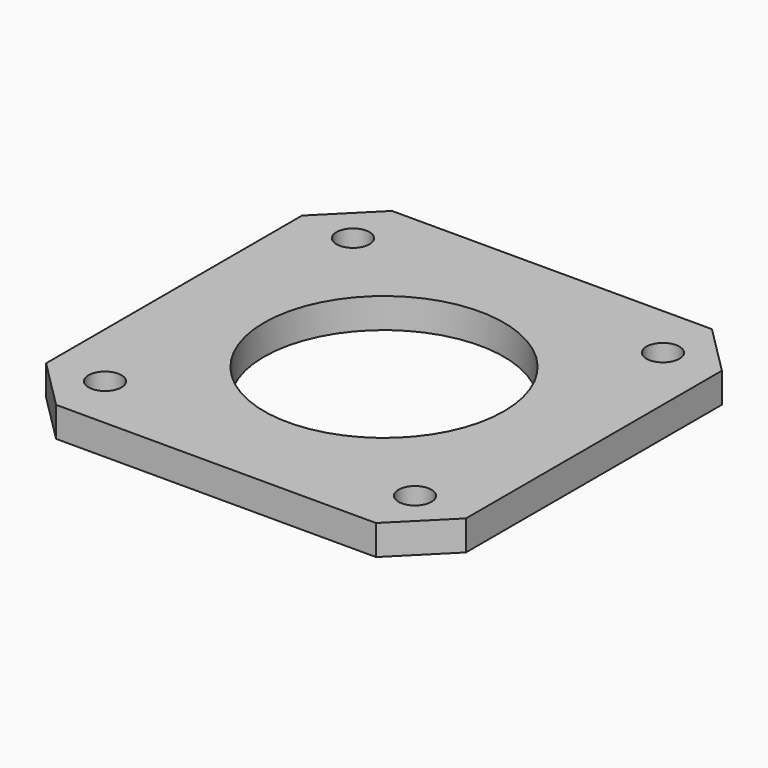
from build123d import *

# Parameters (mm, degrees)
F0_W     = 42
F0_H     = 42
F0_R     = 1.65
F0_R_2   = 12
F1_DEPTH = 3
F2_SIZE  = 5


with BuildPart() as f1:
    # F0 (on Top) → F1 (new body)
    with BuildSketch(Plane.XY):
        Rectangle(F0_W, F0_H)
        with Locations((-15.5, -15.5)):
            Circle(F0_R, mode=Mode.SUBTRACT)
        with Locations((15.5, -15.5)):
            Circle(F0_R, mode=Mode.SUBTRACT)
        with Locations((-15.5, 15.5)):
            Circle(F0_R, mode=Mode.SUBTRACT)
        Circle(F0_R_2, mode=Mode.SUBTRACT)
        with Locations((15.5, 15.5)):
            Circle(F0_R, mode=Mode.SUBTRACT)
    extrude(amount=F1_DEPTH)

    # F2
    f2_edges = [f1.edges().sort_by_distance(p)[0] for p in [
        (-21, 21, 1.5),
        (-21, -21, 1.5),
        (21, -21, 1.5),
        (21, 21, 1.5),
    ]]
    chamfer(f2_edges, length=F2_SIZE)


solid = f1.part
